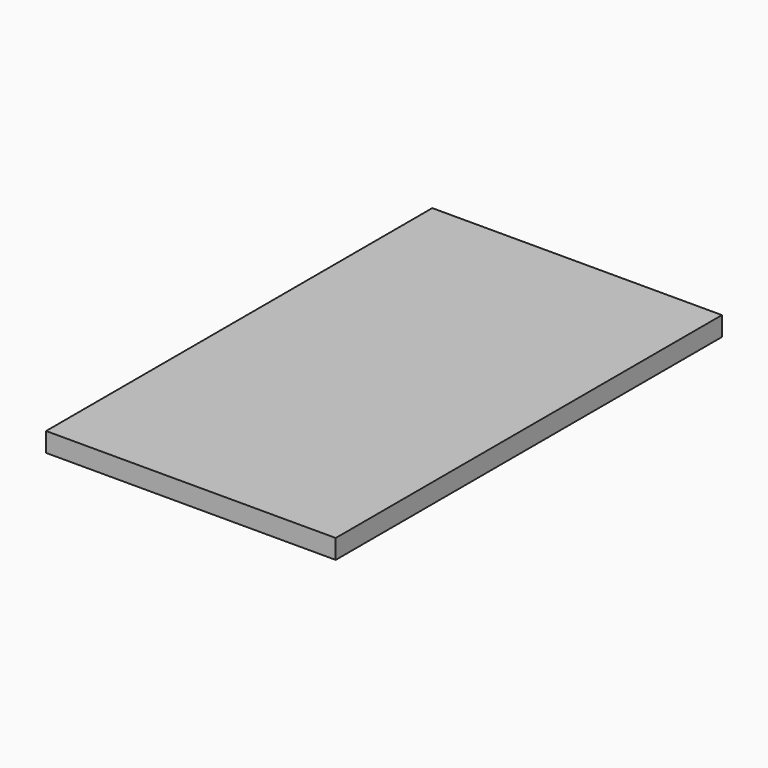
from build123d import *

# Parameters (mm, degrees)
F0_W     = 30
F0_H     = 50
F0_R     = 5
F1_DEPTH = 2
F2_DEPTH = 2


with BuildPart() as f1:
    # F0 (on Top) → F1 (new body)
    with BuildSketch(Plane.XY):
        Rectangle(F0_W, F0_H)
        Circle(F0_R, mode=Mode.SUBTRACT)
        Circle(F0_R)
    extrude(amount=F1_DEPTH)

    # F0 (on Top) → F2 (join)
    with BuildSketch(Plane.XY):
        Circle(F0_R)
    extrude(amount=-F2_DEPTH)


solid = f1.part
